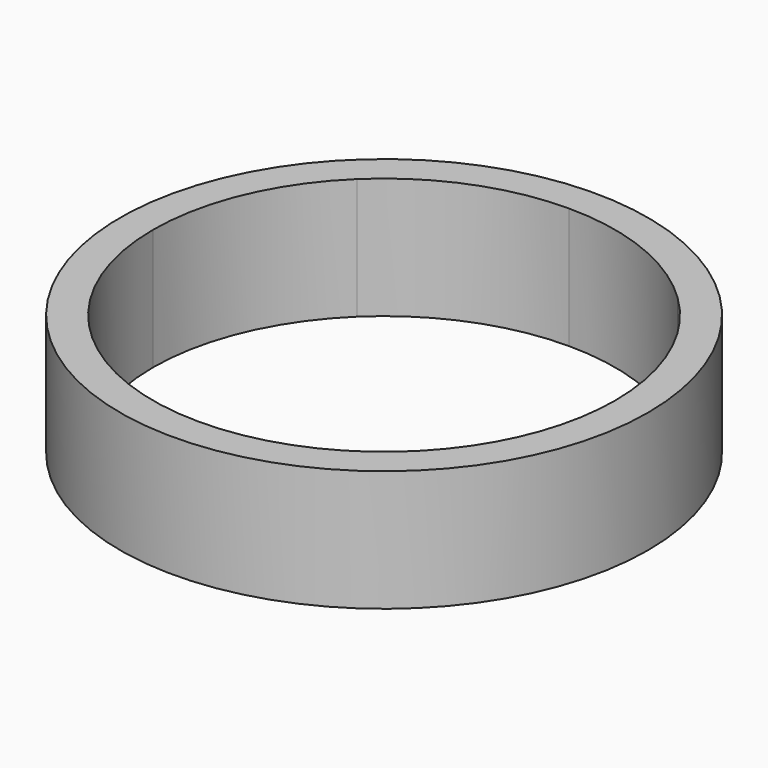
from build123d import *

# Parameters (mm, degrees)
F0_R     = 55.341117
F1_DEPTH = 25.4


with BuildPart() as f1:
    # F0 (on Top) → F1 (new body)
    with BuildSketch(Plane.XY):
        Circle(F0_R)
        with BuildLine():
            ThreePointArc((33.616378, 34.89399), (44.589524, 18.958528), (48.452569, 0))
            ThreePointArc((48.452569, 0), (44.935258, -18.123851), (34.89399, -33.616378))
            ThreePointArc((34.89399, -33.616378), (18.958528, -44.589524), (0, -48.452569))
            ThreePointArc((0, -48.452569), (-19.393686, -44.401986), (-35.544789, -32.927487))
            ThreePointArc((-35.544789, -32.927487), (-45.110352, -17.683539), (-48.452569, 0))
            ThreePointArc((-48.452569, 0), (-44.59158, 18.953691), (-33.623948, 34.886696))
            ThreePointArc((-33.623948, 34.886696), (-18.128726, 44.933292), (0, 48.452569))
            ThreePointArc((0, 48.452569), (18.123851, 44.935258), (33.616378, 34.89399))
        make_face(mode=Mode.SUBTRACT)
    extrude(amount=F1_DEPTH)


solid = f1.part
